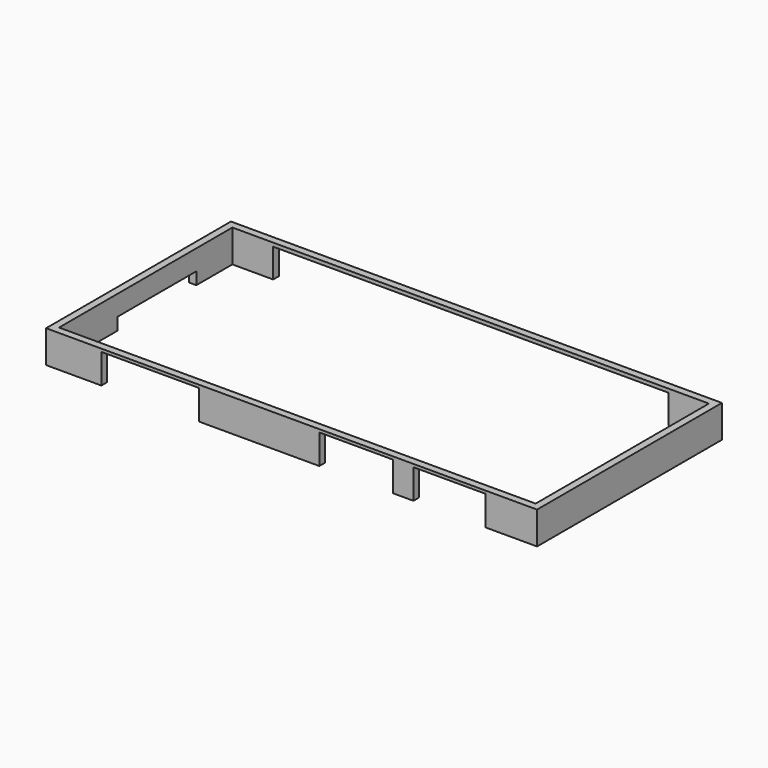
from build123d import *

# Parameters (mm, degrees)
F2_START = 1.5
F0_W     = 68
F0_H     = 32
F0_W_2   = 66.0000007396
F0_H_2   = 30
F2_DEPTH = 4.5
F5_START = 0.9
F3_W     = 9.7086578608
F3_H     = 13.6771607213
F5_DEPTH = 2.3
F6_START = 1
F1_W     = 13.5039854795
F1_H     = 7.9890675843
F1_W_2   = 10.1785697043
F1_W_3   = 10.0000035018
F1_H_2   = 7.8571438789
F6_DEPTH = 4.6
F7_START = 1.5
F4_W     = 54.7266360372
F4_H     = 8.1930877641
F7_DEPTH = 4


with BuildPart() as f2:
    # F0 (on Top) → F2 (new body)
    with BuildSketch(Plane.XY.offset(F2_START)):
        with Locations((0, -0.0852976367)):
            Rectangle(F0_W, F0_H)
        with Locations((0, -0.0852976367)):
            Rectangle(F0_W_2, F0_H_2, mode=Mode.SUBTRACT)
    extrude(amount=F2_DEPTH)

    # F3 (on Top) → F5 (cut)
    with BuildSketch(Plane.XY.offset(F5_START)):
        with Locations((-30.4173231125, 1.8361529801)):
            Rectangle(F3_W, F3_H)
    extrude(amount=F5_DEPTH, mode=Mode.SUBTRACT)

    # F1 (on Top) → F6 (cut)
    with BuildSketch(Plane.XY.offset(F6_START)):
        with Locations((-19.5872941986, -13.5481059551)):
            Rectangle(F1_W, F1_H)
        with Locations((8.9285718277, -13.5481059551)):
            Rectangle(F1_W_2, F1_H)
        with Locations((21.8750005588, -13.4821441025)):
            Rectangle(F1_W_3, F1_H_2)
    extrude(amount=F6_DEPTH, mode=Mode.SUBTRACT)

    # F4 (on Top) → F7 (cut)
    with BuildSketch(Plane.XY.offset(F7_START)):
        with Locations((0.0114953145, 13.3686042391)):
            Rectangle(F4_W, F4_H)
    extrude(amount=F7_DEPTH, mode=Mode.SUBTRACT)


solid = f2.part
